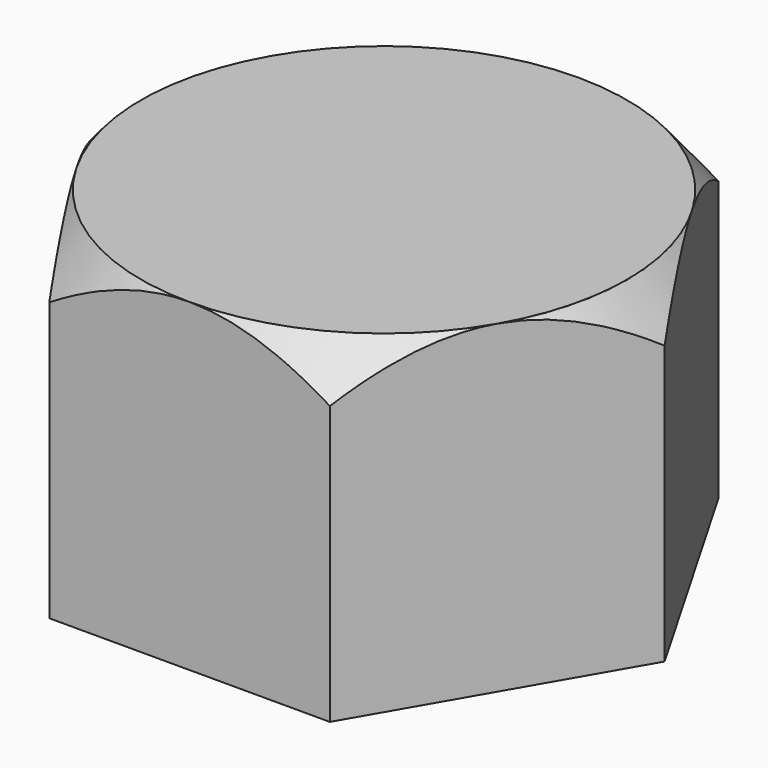
from build123d import *

# Parameters (mm, degrees)
F2_DEPTH = 40


with BuildPart() as f2:
    # F1 (on face) → F2 (new body)
    with BuildSketch(Plane.XY):
        with BuildLine():
            ThreePointArc((25.9807619763, -15.0000002377), (28.9777747532, -7.7645714856), (30, 0))
            ThreePointArc((30, 0), (28.9777748337, 7.764571185), (25.9807622875, 14.9999996987))
            ThreePointArc((25.9807622875, 14.9999996987), (15.0000001082, 25.9807620511), (-9.81e-08, 30))
            ThreePointArc((-9.81e-08, 30), (-15.0000000857, 25.9807620641), (-25.9807621634, 14.9999999136))
            ThreePointArc((-25.9807621634, 14.9999999136), (-30, 2.886e-07), (-25.980762452, -14.9999994137))
            ThreePointArc((-25.980762452, -14.9999994137), (-15.0000002931, -25.9807619443), (0, -30))
            ThreePointArc((0, -30), (14.9999998812, -25.9807621821), (25.9807619763, -15.0000002377))
        make_face()
    extrude(amount=-F2_DEPTH)


with BuildPart() as f2b:
    # F0 (on Top) → F2, piece 2 (new body)
    with BuildSketch(Plane.XY):
        Polygon((17.3205080757, 30), (-17.3205080757, 30), (-34.6410161514, 0), (-17.3205080757, -30), (17.3205080757, -30), (34.6410161514, 0), align=None)
    extrude(amount=-F2_DEPTH)

    # F3 (on Front) → F4 (revolve, cut)
    with BuildSketch(Plane.XZ):
        Polygon((34.6410161514, 0), (30, 0), (34.6410161514, -5.6693819351), align=None)
    revolve(axis=Axis((0, 0, -15.6040294096), (0, 0, -1)), mode=Mode.SUBTRACT)


solid = Compound([f2.part, f2b.part])
